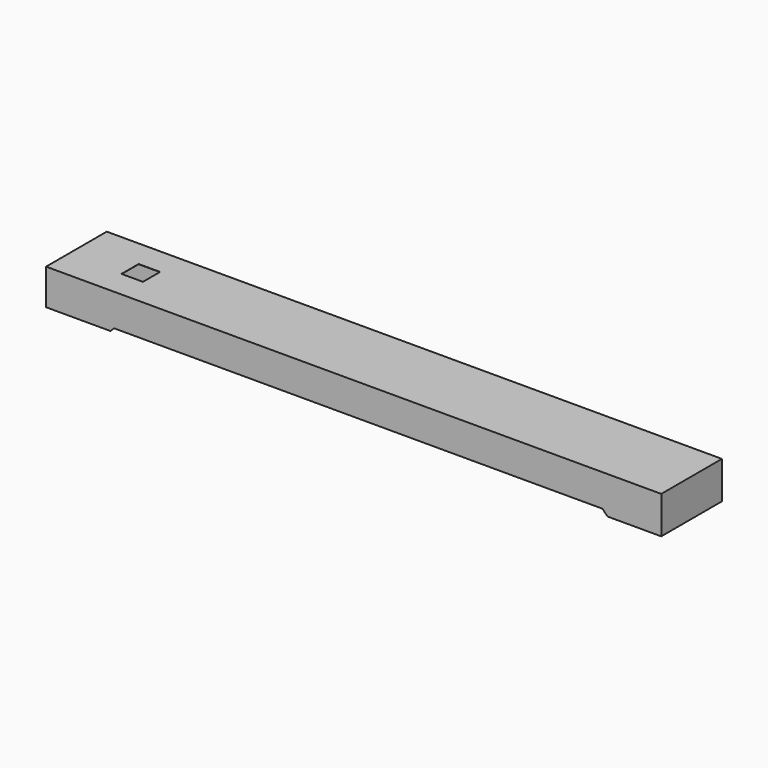
from build123d import *

# Parameters (mm, degrees)
SKETCH_W         = 300
SKETCH_H         = 300
EXTRUDE_DEPTH    = 10
EXTRUDE033_DEPTH = 527
EXTRUDE012_DEPTH = 530


with BuildPart() as extrude_body:
    # Sketch (on Face3 of Cut003) → Extrude (new body)
    with BuildSketch(Plane.XY.offset(411)):
        with Locations((300, 0)):
            Rectangle(SKETCH_W, SKETCH_H)
    extrude(amount=-EXTRUDE_DEPTH)


with BuildPart() as extrude033:
    # Sketch034 → Extrude033 (new body, symmetric)
    with BuildSketch(Plane.XZ):
        Polygon((-597, -89), (-597, 411), (7997, 411), (7997, -112), (7247, -112), (7174, -39), (350, -39), (300, -89), align=None)
    extrude(amount=EXTRUDE033_DEPTH, both=True)


with BuildPart() as extrude033_1:
    # Extrude033 placement: moved
    add(extrude033.part.moved(Location((0, 0, -3))))


with BuildPart() as cut:
    # Sketch020 → Extrude012 (new body, symmetric)
    with BuildSketch(Plane.XZ):
        Polygon((-600, -89), (-600, 411), (8000, 411), (8000, -112), (7250, -112), (7177, -39), (350, -39), (300, -89), align=None)
    extrude(amount=EXTRUDE012_DEPTH, both=True)

    # Cut003: cut Extrude033
    add(extrude033_1.part, mode=Mode.SUBTRACT)

    # Cut: cut Extrude body
    add(extrude_body.part, mode=Mode.SUBTRACT)


solid = cut.part
